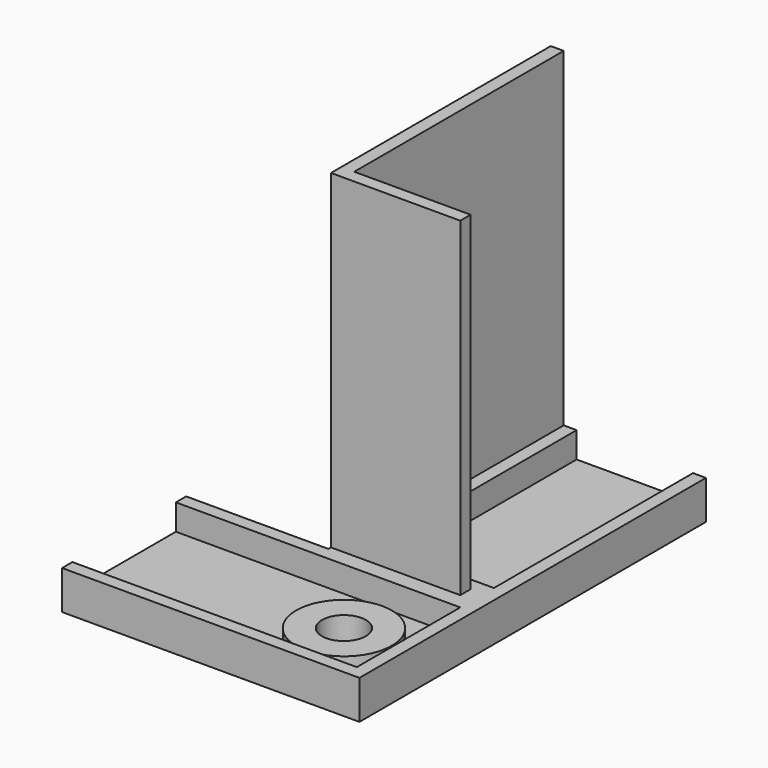
from build123d import *

# Parameters (mm, degrees)
SKETCH006_R      = 1.7
EXTRUDE004_DEPTH = 1
EXTRUDE005_DEPTH = 2
SKETCH017_R      = 3.7
SKETCH017_R_2    = 1.7
EXTRUDE014_DEPTH = 1
EXTRUDE003_DEPTH = 27.5


with BuildPart() as extrude004:
    # Sketch006 → Extrude004 (new body)
    with BuildSketch(Plane.XY.offset(10)):
        Polygon((-11, 0), (0, 0), (0, 12), (-23, 12), (-23, -21.5), (-11, -21.5), align=None)
        with Locations((-17, 6)):
            Circle(SKETCH006_R, mode=Mode.SUBTRACT)
    extrude(amount=EXTRUDE004_DEPTH)


with BuildPart() as extrude004_1:
    # Extrude004 placement: moved
    add(extrude004.part.moved(Location((0, 0, -36.5))))


with BuildPart() as extrude005:
    # Sketch007 → Extrude005 (new body)
    with BuildSketch(Plane.XY.offset(10)):
        Polygon((0, 12), (-23, 12), (-23, -21.5), (-22, -21.5), (-22, -2.25), (-13, -2.25), (-13, -21.5), (-11, -21.5), (-11, 0), (0, 0), (0, 1), (-22, 1), (-22, 11), (0, 11), align=None)
    extrude(amount=EXTRUDE005_DEPTH)


with BuildPart() as extrude005_1:
    # Extrude005 placement: moved
    add(extrude005.part.moved(Location((0, 0, -35.5))))


with BuildPart() as extrude014:
    # Sketch017 → Extrude014 (new body)
    with BuildSketch(Plane.XY.offset(10)):
        with Locations((-17, 6)):
            Circle(SKETCH017_R)
        with Locations((-17, 6)):
            Circle(SKETCH017_R_2, mode=Mode.SUBTRACT)
    extrude(amount=EXTRUDE014_DEPTH)


with BuildPart() as extrude014_1:
    # Extrude014 placement: moved
    add(extrude014.part.moved(Location((0, 0, -35.5))))


with BuildPart() as body004:
    # Sketch003 → Extrude003 (new body)
    with BuildSketch(Plane.XY):
        Polygon((-21, -0.25), (-11, -0.25), (-11, -21.5), (-12, -21.5), (-12, -1.25), (-21, -1.25), align=None)
    extrude(amount=-EXTRUDE003_DEPTH)


with BuildPart() as body004_1:
    # Extrude003 placement: moved
    add(body004.part.moved(Location((0, 0, 2))))

    # Fusion013: union Extrude004, Extrude005, Extrude014
    add(extrude004_1.part)
    add(extrude005_1.part)
    add(extrude014_1.part)


with BuildPart() as body005:
    # Part__Mirroring005: instance of Body004
    add(body004_1.part.mirror(Plane(origin=(0, 0, 0), x_dir=(0, -1, 0), z_dir=(1, 0, 0))))


with BuildPart() as part_mirroring006:
    # Part__Mirroring006: instance of Body005
    add(body005.part.mirror(Plane(origin=(0, -21.5, 0), x_dir=(1, 0, 0), z_dir=(0, 1, 0))))


solid = part_mirroring006.part
